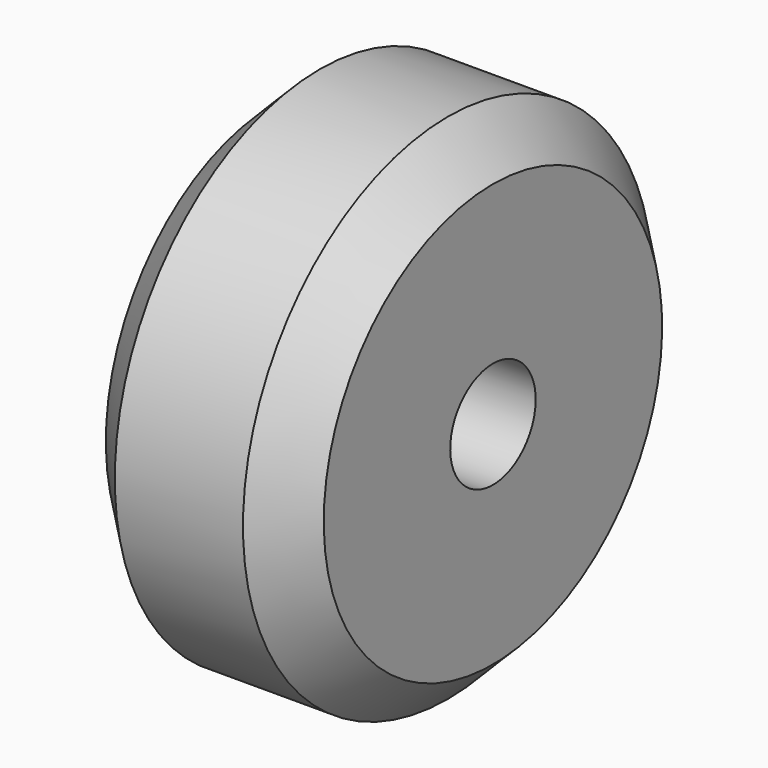
from build123d import *


with BuildPart() as part:
    # Sketch → Revolution (revolve)
    with BuildSketch(Plane.XZ):
        Polygon((-3, 12), (-5.1, 9.9), (-5.1, 2.5), (5.1, 2.5), (5.1, 9.9), (3, 12), align=None)
    revolve(axis=Axis((0, 0, 0), (1, 0, 0)))


solid = part.part
